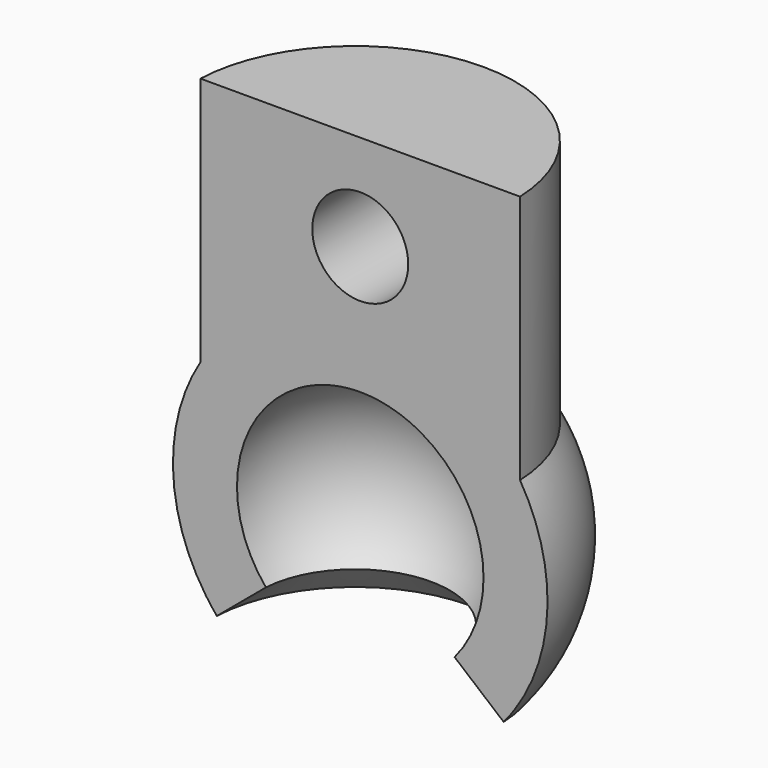
from build123d import *

# Parameters (mm, degrees)
F1_ANGLE = 180
F3_R     = 1.905
F4_DEPTH = 7.4432
F6_DEPTH = 18.576954


with BuildPart() as f1:
    # F0 (on Front) → F1 (revolve)
    with BuildSketch(Plane.XZ):
        with BuildLine():
            ThreePointArc((0, 4.9022), (4.442902, 2.071759), (3.755303, -3.151073))
            Line((3.755303, -3.151073), (5.701056, -4.783754))
            ThreePointArc((5.701056, -4.783754), (7.421416, -0.555811), (6.35, 3.881216))
            Line((6.35, 3.881216), (6.35, 7.3025))
            Line((6.35, 7.3025), (6.35, 13.7922))
            Line((6.35, 13.7922), (0, 13.7922))
            Line((0, 13.7922), (0, 7.4422))
            Line((0, 7.4422), (0, 4.9022))
        make_face()
    revolve(axis=Axis((0, 0, 10.6172), (0, 0, 1)), revolution_arc=F1_ANGLE)

    # F3 (on face) → F4 (cut, through all)
    with BuildSketch(Plane.XZ):
        with Locations((0, 9.9822)):
            Circle(F3_R)
    extrude(amount=-F4_DEPTH, mode=Mode.SUBTRACT)

    # F5 (on face) → F6 (cut, through all)
    with BuildSketch(Plane.XY.offset(13.7922)):
        with BuildLine():
            ThreePointArc((-6.344918, 0.254), (-6.348729, 0.127025), (-6.35, 0))
            Line((-6.35, 0), (6.35, 0))
            ThreePointArc((6.35, 0), (6.348729, 0.127025), (6.344918, 0.254))
            Line((6.344918, 0.254), (-6.344918, 0.254))
        make_face()
        with BuildLine():
            Line((-9.525, 0.254), (-9.525, 0))
            Line((-9.525, 0), (-6.35, 0))
            ThreePointArc((-6.35, 0), (-6.348729, 0.127025), (-6.344918, 0.254))
            Line((-6.344918, 0.254), (-9.525, 0.254))
        make_face()
        with BuildLine():
            ThreePointArc((6.344918, 0.254), (6.348729, 0.127025), (6.35, 0))
            Line((6.35, 0), (9.525, 0))
            Line((9.525, 0), (9.525, 0.254))
            Line((9.525, 0.254), (6.344918, 0.254))
        make_face()
    extrude(amount=-F6_DEPTH, mode=Mode.SUBTRACT)


solid = f1.part
